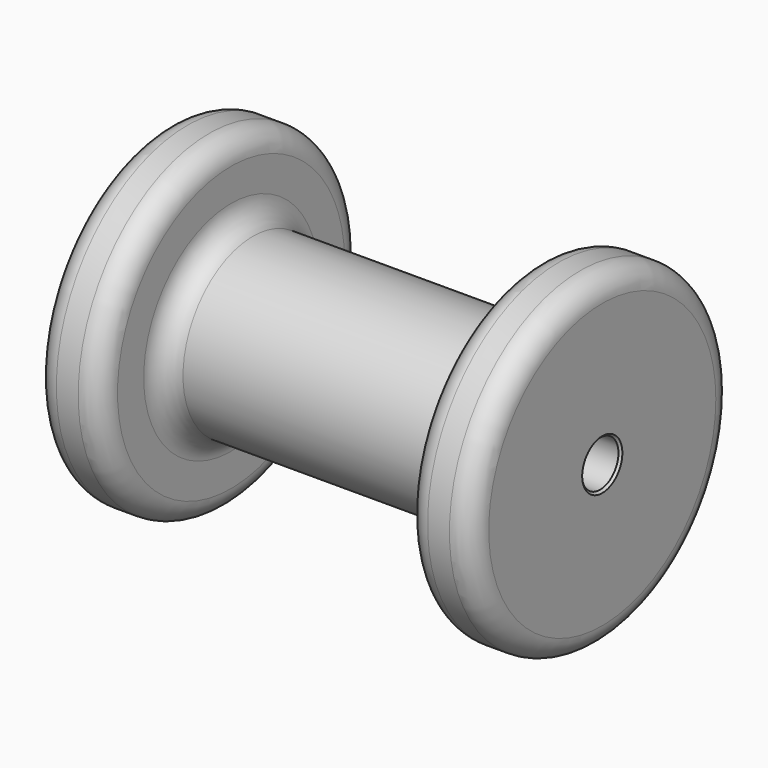
from build123d import *

# Parameters (mm, degrees)
F2_R    = 5
F3_SIZE = 0.5


with BuildPart() as f1:
    # F0 (on Top) → F1 (revolve)
    with BuildSketch(Plane.XY):
        Polygon((-26.083331, 37.5), (-26.083331, 5.25), (73.916669, 5.25), (73.916669, 37.5), (58.916669, 37.5), (58.916669, 20), (-11.083331, 20), (-11.083331, 37.5), align=None)
    revolve(axis=Axis((-3.25, 0, 0), (-1, 0, 0)))

    # F2
    f2_edges = [f1.edges().sort_by_distance(p)[0] for p in [
        (-26.083331, -37.5, 0),
        (-11.083331, -37.5, 0),
        (58.916669, -37.5, 0),
        (73.916669, -37.5, 0),
        (58.916669, -20, 0),
        (-11.083331, -20, 0),
        (23.916669, 20, 0),
    ]]
    fillet(f2_edges, radius=F2_R)

    # F3
    f3_edges = [f1.edges().sort_by_distance(p)[0] for p in [
        (73.916669, -5.25, 0),
        (-26.083331, -5.25, 0),
    ]]
    chamfer(f3_edges, length=F3_SIZE)


solid = f1.part
